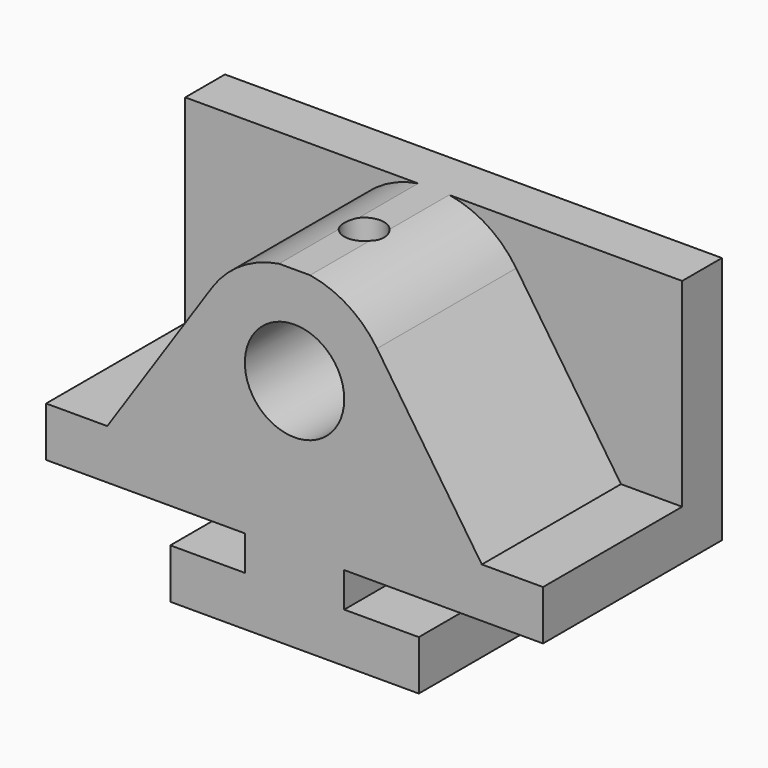
from build123d import *

# Parameters (mm, degrees)
F1_DEPTH = 57.15
F2_R     = 12.7
F3_DEPTH = 44.45
F4_R     = 5.08
F5_DEPTH = 25.4


with BuildPart() as f1:
    # F0 (on Front) → F1 (new body)
    with BuildSketch(Plane.XZ):
        with BuildLine():
            Line((0, 12.7), (0, 0))
            Line((0, 0), (63.5, 0))
            Line((63.5, 0), (63.5, 12.7))
            Line((63.5, 12.7), (44.45, 12.7))
            Line((44.45, 12.7), (44.45, 21.59))
            Line((44.45, 21.59), (95.25, 21.59))
            Line((95.25, 21.59), (95.25, 34.29))
            Line((95.25, 34.29), (79.375, 34.29))
            Line((79.375, 34.29), (52.843426, 73.840173))
            ThreePointArc((52.843426, 73.840173), (43.702941, 82.101765), (31.75, 85.09))
            ThreePointArc((31.75, 85.09), (19.797059, 82.101765), (10.656574, 73.840173))
            Line((10.656574, 73.840173), (-15.875, 34.29))
            Line((-15.875, 34.29), (-31.75, 34.29))
            Line((-31.75, 34.29), (-31.75, 21.59))
            Line((-31.75, 21.59), (19.05, 21.59))
            Line((19.05, 21.59), (19.05, 12.7))
            Line((19.05, 12.7), (0, 12.7))
        make_face()
        with BuildLine():
            Line((-31.75, 85.09), (-31.75, 34.29))
            Line((-31.75, 34.29), (-15.875, 34.29))
            Line((-15.875, 34.29), (10.656574, 73.840173))
            ThreePointArc((10.656574, 73.840173), (19.797059, 82.101765), (31.75, 85.09))
            Line((31.75, 85.09), (-31.75, 85.09))
        make_face()
        with BuildLine():
            Line((79.375, 34.29), (95.25, 34.29))
            Line((95.25, 34.29), (95.25, 85.09))
            Line((95.25, 85.09), (31.75, 85.09))
            ThreePointArc((31.75, 85.09), (43.702941, 82.101765), (52.843426, 73.840173))
            Line((52.843426, 73.840173), (79.375, 34.29))
        make_face()
    extrude(amount=F1_DEPTH)

    # F2 (on face) → F3 (cut)
    with BuildSketch(Plane.XZ.offset(57.15)):
        with BuildLine():
            Line((-31.75, 85.09), (-31.75, 34.29))
            Line((-31.75, 34.29), (-16.115654, 34.29))
            Line((-16.115654, 34.29), (10.664181, 74.163921))
            ThreePointArc((10.664181, 74.163921), (18.082063, 81.411466), (27.778468, 85.09))
            Line((27.778468, 85.09), (-31.75, 85.09))
        make_face()
        with BuildLine():
            Line((95.25, 85.09), (35.721532, 85.09))
            ThreePointArc((35.721532, 85.09), (45.417937, 81.411466), (52.835819, 74.163921))
            Line((52.835819, 74.163921), (79.615654, 34.29))
            Line((79.615654, 34.29), (95.25, 34.29))
            Line((95.25, 34.29), (95.25, 85.09))
        make_face()
        with BuildLine():
            ThreePointArc((35.721532, 85.09), (31.75, 85.402415), (27.778468, 85.09))
            Line((27.778468, 85.09), (35.721532, 85.09))
        make_face()
        with Locations((31.75, 60.002415)):
            Circle(F2_R)
    extrude(amount=-F3_DEPTH, mode=Mode.SUBTRACT)

    # F4 (on face) → F5 (cut)
    with BuildSketch(Plane.XY.offset(85.09)):
        with Locations((31.75, -34.925)):
            Circle(F4_R)
    extrude(amount=-F5_DEPTH, mode=Mode.SUBTRACT)


solid = f1.part
